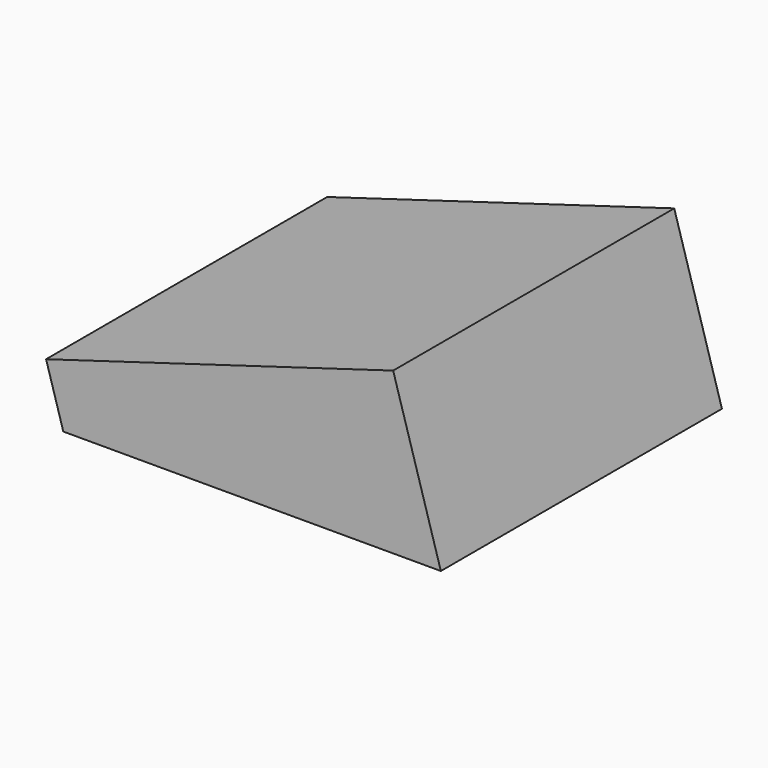
from build123d import *

# Parameters (mm, degrees)
F2_DEPTH = 27.33


with BuildPart() as f2:
    # F1 (on offset) → F2 (new body)
    with BuildSketch(Plane.XZ.offset(13.5)):
        Polygon((12.123814, 18.000341), (-14.876186, 10.000341), (12.123814, 10.000341), align=None)
        Polygon((12.123814, 10.000341), (-14.876186, 10.000341), (-13.536655, 5.479425), (15.833715, 5.479425), (12.123814, 18.000341), align=None)
    extrude(amount=-F2_DEPTH)


solid = f2.part
